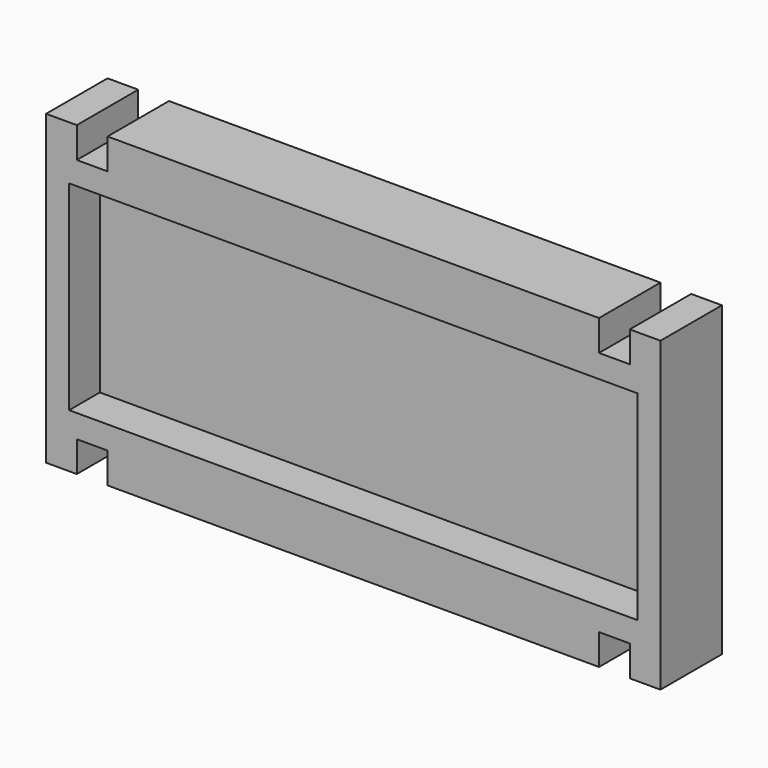
from build123d import *

# Parameters (mm, degrees)
F0_W     = 80
F0_H     = 40
F1_DEPTH = 10
F2_W     = 74
F2_H     = 26
F3_DEPTH = 5
F4_W     = 4
F4_H     = 4
F5_DEPTH = 25.4
F6_W     = 4
F6_H     = 4
F7_DEPTH = 50.8


with BuildPart() as f1:
    # F0 (on Front) → F1 (new body)
    with BuildSketch(Plane.XZ):
        with Locations((40, 20)):
            Rectangle(F0_W, F0_H)
    extrude(amount=F1_DEPTH)

    # F2 (on face) → F3 (cut)
    with BuildSketch(Plane.XZ.offset(10)):
        with Locations((40, 20)):
            Rectangle(F2_W, F2_H)
    extrude(amount=-F3_DEPTH, mode=Mode.SUBTRACT)

    # F4 (on face) → F5 (cut)
    with BuildSketch(Plane.XZ.offset(10)):
        with Locations((6, 38)):
            Rectangle(F4_W, F4_H)
        with Locations((74, 38)):
            Rectangle(F4_W, F4_H)
        with Locations((74, 2)):
            Rectangle(F4_W, F4_H)
        with Locations((6, 2)):
            Rectangle(F4_W, F4_H)
    extrude(amount=-F5_DEPTH, mode=Mode.SUBTRACT)

    # F6 (on face) → F7 (cut)
    with BuildSketch(Plane.XY.offset(40)):
        with Locations((6, -2)):
            Rectangle(F6_W, F6_H)
        with Locations((74, -2)):
            Rectangle(F6_W, F6_H)
    extrude(amount=-F7_DEPTH, mode=Mode.SUBTRACT)


solid = f1.part
